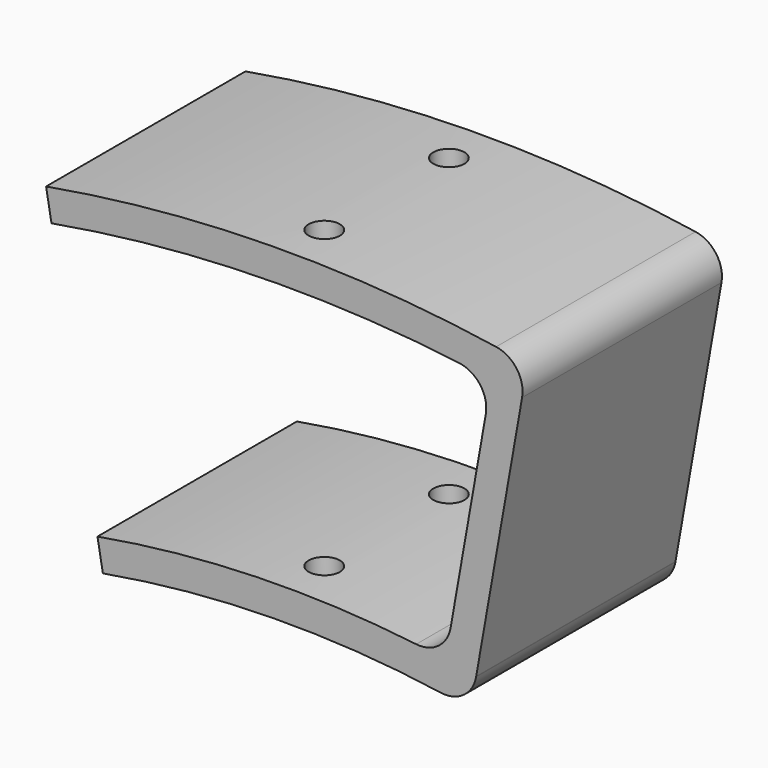
from build123d import *

# Parameters (mm, degrees)
F1_DEPTH = 20
F2_R     = 5
F4_R     = 2.5
F5_DEPTH = 62.5836819879


with BuildPart() as f1:
    # F0 (on Front) → F1 (new body, symmetric)
    with BuildSketch(Plane.XZ):
        with BuildLine():
            Line((37.7684786426, 214.1956862802), (38.6367195309, 219.1197250452))
            ThreePointArc((38.6367195309, 219.1197250452), (0, 222.5), (-38.6367195309, 219.1197250452))
            Line((-38.6367195309, 219.1197250452), (-37.7684786426, 214.1956862802))
            ThreePointArc((-37.7684786426, 214.1956862802), (-2.5001651855, 217.4856298104), (32.8344587783, 215.0073215422))
            ThreePointArc((32.8344587783, 215.0073215422), (35.3038012268, 214.6156835344), (37.7684786426, 214.1956862802))
        make_face()
        with BuildLine():
            Line((30.3884310917, 172.3413567771), (37.7684786426, 214.1956862802))
            ThreePointArc((37.7684786426, 214.1956862802), (35.3038012268, 214.6156835344), (32.8344587783, 215.0073215422))
            Line((32.8344587783, 215.0073215422), (25.451986353, 173.1392398929))
            ThreePointArc((25.451986353, 173.1392398929), (27.9230587413, 172.7579311943), (30.3884310917, 172.3413567771))
        make_face()
        with BuildLine():
            Line((29.5201902034, 167.4173180121), (30.3884310917, 172.3413567771))
            ThreePointArc((30.3884310917, 172.3413567771), (27.9230587413, 172.7579311943), (25.451986353, 173.1392398929))
            ThreePointArc((25.451986353, 173.1392398929), (-2.5002551932, 174.9821382998), (-30.3884310917, 172.3413567771))
            Line((-30.3884310917, 172.3413567771), (-29.5201902034, 167.4173180121))
            ThreePointArc((-29.5201902034, 167.4173180121), (0, 170), (29.5201902034, 167.4173180121))
        make_face()
    extrude(amount=F1_DEPTH, both=True)

    # F2
    f2_edges = [f1.edges().sort_by_distance(p)[0] for p in [
        (38.63672, 0, 219.119725),
        (32.834459, 0, 215.007322),
        (29.52019, 0, 167.417318),
        (25.451986, 0, 173.13924),
    ]]
    fillet(f2_edges, radius=F2_R)

    # F4 (on offset) → F5 (cut, through all)
    with BuildSketch(Plane.XY.offset(230)):
        with Locations((0, 12.5)):
            Circle(F4_R)
        with Locations((0, -12.5)):
            Circle(F4_R)
    extrude(amount=-F5_DEPTH, mode=Mode.SUBTRACT)


solid = f1.part
